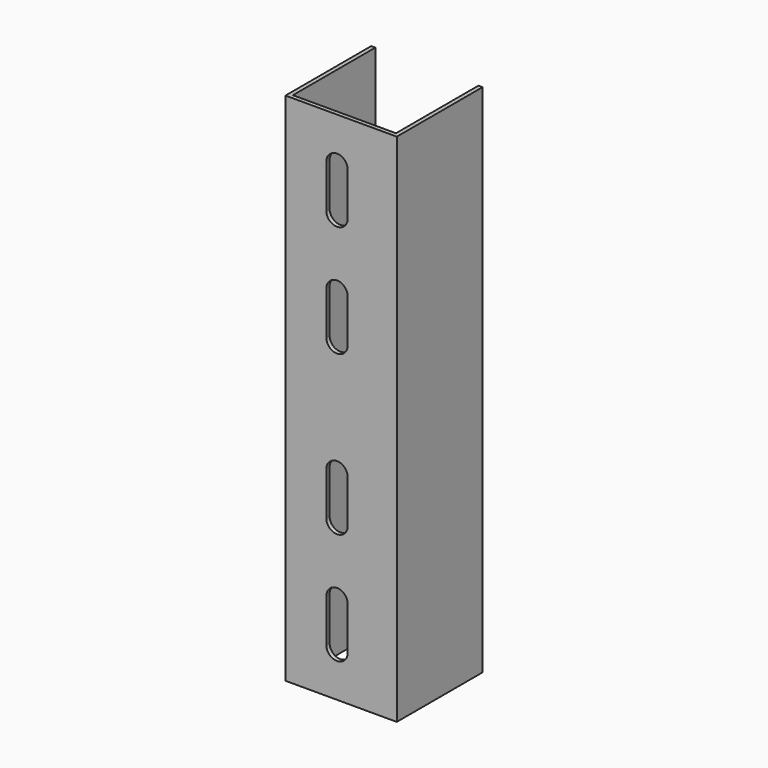
from build123d import *

# Parameters (mm, degrees)
F1_DEPTH = 381
F4_DEPTH = 25.4


with BuildPart() as f1:
    # F0 (on Top) → F1 (new body)
    with BuildSketch(Plane.XY):
        Polygon((-41.148, 38.074892), (-41.148, -41.148), (41.148, -41.148), (41.148, 38.1), (38.1, 38.09907), (38.1, -38.1), (-38.1, -38.1), (-38.1, 38.075822), align=None)
    extrude(amount=F1_DEPTH)

    # F3 (on offset) → F4 (cut)
    with BuildSketch(Plane.XZ.offset(50.8)):
        with BuildLine():
            ThreePointArc((4.8895, 147.49787), (-3.048, 155.43537), (-10.9855, 147.49787))
            Line((-10.9855, 147.49787), (-10.9855, 115.74787))
            ThreePointArc((-10.9855, 115.74787), (-3.048, 107.81037), (4.8895, 115.74787))
            Line((4.8895, 115.74787), (4.8895, 147.49787))
        make_face()
        with BuildLine():
            ThreePointArc((4.8895, 64.94787), (-3.048, 72.88537), (-10.9855, 64.94787))
            Line((-10.9855, 64.94787), (-10.9855, 33.19787))
            ThreePointArc((-10.9855, 33.19787), (-3.048, 25.26037), (4.8895, 33.19787))
            Line((4.8895, 33.19787), (4.8895, 64.94787))
        make_face()
        with BuildLine():
            ThreePointArc((4.8895, 265.1125), (-3.048, 273.05), (-10.9855, 265.1125))
            Line((-10.9855, 265.1125), (-10.9855, 233.3625))
            ThreePointArc((-10.9855, 233.3625), (-3.048, 225.425), (4.8895, 233.3625))
            Line((4.8895, 233.3625), (4.8895, 265.1125))
        make_face()
        with BuildLine():
            ThreePointArc((4.8895, 347.6625), (-3.048, 355.6), (-10.9855, 347.6625))
            Line((-10.9855, 347.6625), (-10.9855, 315.9125))
            ThreePointArc((-10.9855, 315.9125), (-3.048, 307.975), (4.8895, 315.9125))
            Line((4.8895, 315.9125), (4.8895, 347.6625))
        make_face()
    extrude(amount=-F4_DEPTH, mode=Mode.SUBTRACT)


solid = f1.part
